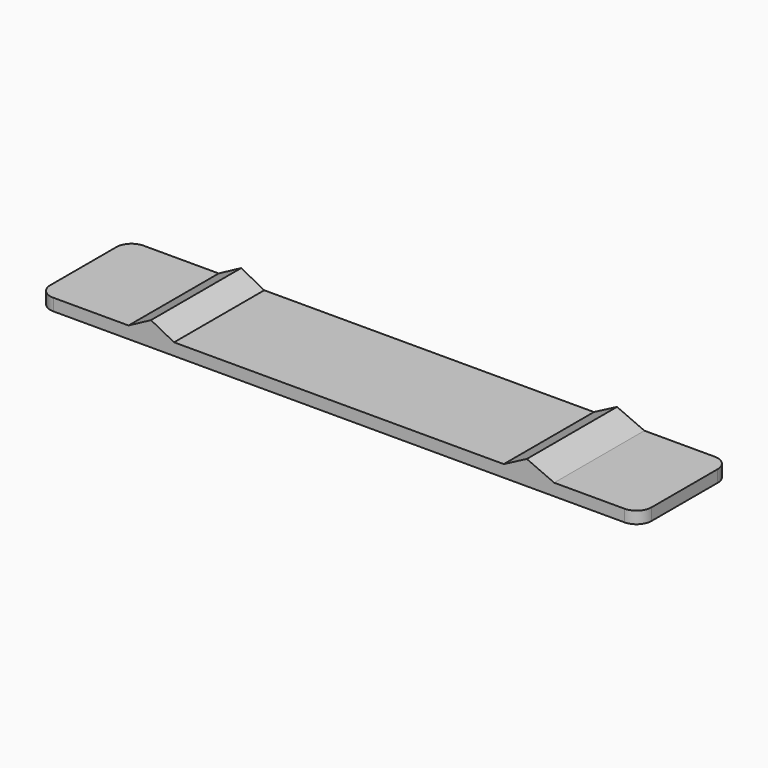
from build123d import *

# Parameters (mm, degrees)
PAD_DEPTH = 7.5
FILLET_R  = 1


with BuildPart() as part:
    # Sketch → Pad (new body)
    with BuildSketch(Plane.XZ):
        Polygon((-20, -0.4), (20, -0.4), (20, 0.4), (14.320997, 0.4), (12.5, 1.2), (10.965424, 0.4), (-10.965424, 0.4), (-12.5, 1.2), (-13.994693, 0.4), (-20, 0.4), align=None)
    extrude(amount=PAD_DEPTH)

    # Fillet
    fillet_edges = [part.edges().sort_by_distance(p)[0] for p in [
        (-20, -7.5, 0),
        (-20, 0, 0),
        (20, 0, 0),
        (20, -7.5, 0),
    ]]
    fillet(fillet_edges, radius=FILLET_R)


solid = part.part
